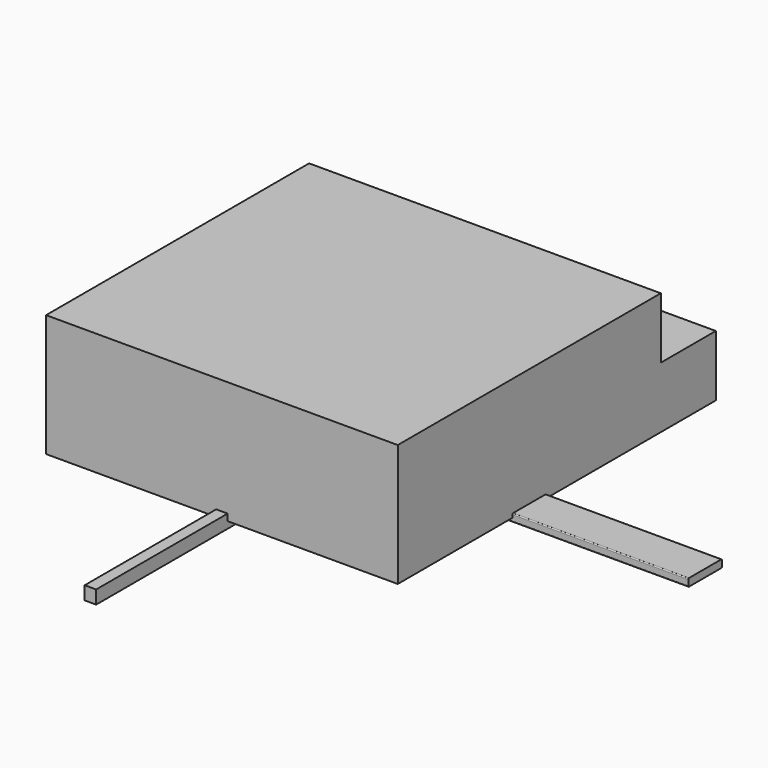
from build123d import *

# Parameters (mm, degrees)
F0_W     = 38.1
F0_H     = 12.7
F1_DEPTH = 101.6
F2_W     = 38.1
F2_H     = 44.45
F3_DEPTH = 1092.2
F5_DEPTH = 1168.4
F6_W     = 1168.4
F6_H     = 1092.2
F7_DEPTH = 406.4
F8_W     = 1168.4
F8_H     = 203.2
F9_DEPTH = 228.6


with BuildPart() as f1:
    # F0 (on Front) → F1 (new body)
    with BuildSketch(Plane.XZ):
        Rectangle(F0_W, F0_H)
    extrude(amount=F1_DEPTH)


with BuildPart() as f3:
    # F2 (on Front) → F3 (new body)
    with BuildSketch(Plane.XZ):
        Rectangle(F2_W, F2_H)
    extrude(amount=F3_DEPTH)


with BuildPart() as f5:
    # F4 (on Right) → F5 (new body)
    with BuildSketch(Plane.YZ):
        with BuildLine():
            Line((-66.675, -12.7), (66.675, -12.7))
            ThreePointArc((66.675, -12.7), (68.920064, -11.770064), (69.85, -9.525))
            Line((69.85, -9.525), (69.85, 9.525))
            ThreePointArc((69.85, 9.525), (68.920064, 11.770064), (66.675, 12.7))
            Line((66.675, 12.7), (-66.675, 12.7))
            ThreePointArc((-66.675, 12.7), (-68.920064, 11.770064), (-69.85, 9.525))
            Line((-69.85, 9.525), (-69.85, -9.525))
            ThreePointArc((-69.85, -9.525), (-68.920064, -11.770064), (-66.675, -12.7))
        make_face()
    extrude(amount=F5_DEPTH)


with BuildPart() as f7:
    # F6 (on Top) → F7 (new body)
    with BuildSketch(Plane.XY):
        Rectangle(F6_W, F6_H)
    extrude(amount=F7_DEPTH)

    # F8 (on face) → F9 (join)
    with BuildSketch(Plane(origin=(0, 546.1, 0), x_dir=(-1, 0, 0), z_dir=(0, 1, 0))):
        with Locations((0, 101.6)):
            Rectangle(F8_W, F8_H)
    extrude(amount=F9_DEPTH)


solid = Compound([f1.part, f3.part, f5.part, f7.part])
